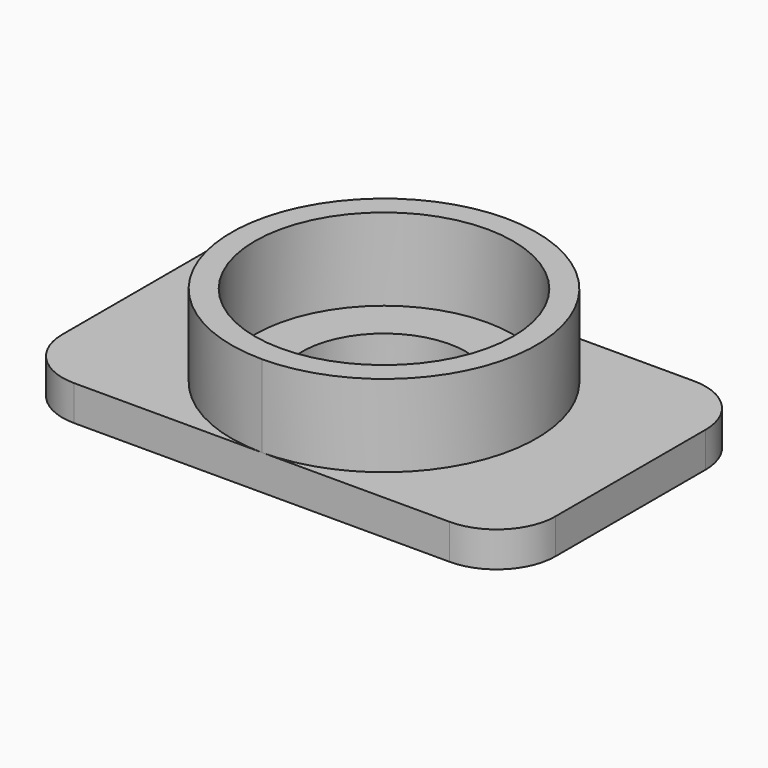
from build123d import *

# Parameters (mm, degrees)
F1_DEPTH = 3
F0_R     = 11
F0_R_2   = 7
F2_DEPTH = 10


with BuildPart() as f1:
    # F0 (on Top) → F1 (new body)
    with BuildSketch(Plane.XY):
        with BuildLine():
            ThreePointArc((21, 8), (19.5355339059, 11.5355339059), (16, 13))
            Line((16, 13), (-1.88e-08, 13))
            ThreePointArc((-1.88e-08, 13), (9.1923881488, 9.1923881621), (13, 0))
            ThreePointArc((13, 0), (9.1923881554, -9.1923881554), (0, -13))
            Line((0, -13), (16, -13))
            ThreePointArc((16, -13), (19.5355339059, -11.5355339059), (21, -8))
            Line((21, -8), (21, 8))
        make_face()
    extrude(amount=F1_DEPTH)



with BuildPart() as f1b:
    # F0 (on Top) → F1, piece 2 (new body)
    with BuildSketch(Plane.XY):
        with BuildLine():
            ThreePointArc((0, -13), (-13, -9.4e-09), (-1.88e-08, 13))
            Line((-1.88e-08, 13), (-16, 13))
            ThreePointArc((-16, 13), (-19.5355339059, 11.5355339059), (-21, 8))
            Line((-21, 8), (-21, -8))
            ThreePointArc((-21, -8), (-19.5355339059, -11.5355339059), (-16, -13))
            Line((-16, -13), (0, -13))
        make_face()
    extrude(amount=F1_DEPTH)


with BuildPart() as f1c:
    # F0 (on Top) → F1, piece 3 (new body)
    with BuildSketch(Plane.XY):
        Circle(F0_R)
        Circle(F0_R_2, mode=Mode.SUBTRACT)
    extrude(amount=F1_DEPTH)


with BuildPart() as f1_1:
    add(f1.part)

    add(f1b.part)  # F2 merges F1b

    add(f1c.part)  # F2 merges F1c
    # F0 (on Top) → F2 (join)
    with BuildSketch(Plane.XY):
        with BuildLine():
            ThreePointArc((13, 0), (9.1923881488, 9.1923881621), (-1.88e-08, 13))
            ThreePointArc((-1.88e-08, 13), (-13, -9.4e-09), (0, -13))
            ThreePointArc((0, -13), (9.1923881554, -9.1923881554), (13, 0))
        make_face()
        Circle(F0_R, mode=Mode.SUBTRACT)
    extrude(amount=F2_DEPTH)


solid = f1_1.part
